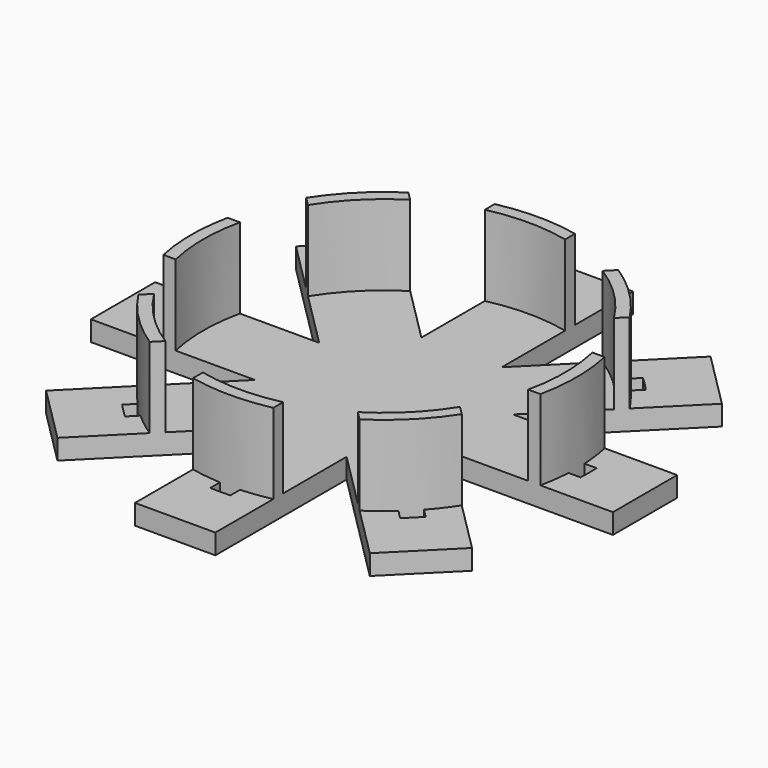
from build123d import *

# Parameters (mm, degrees)
BOX037_W                  = 130
BOX037_H                  = 50
BOX037_DEPTH              = 30
BOX035_W                  = 130
BOX035_H                  = 50
BOX035_DEPTH              = 30
CYLINDER078_R             = 45
CYLINDER078_DEPTH         = 20
CYLINDER077_R             = 48
CYLINDER077_DEPTH         = 20
BOX036_W                  = 130
BOX036_H                  = 60
BOX036_DEPTH              = 20
BOX038_W                  = 130
BOX038_H                  = 60
BOX038_DEPTH              = 20
CYLINDER076_R             = 48
CYLINDER076_DEPTH         = 10
CYLINDER075_R             = 51
CYLINDER075_DEPTH         = 10
BOX034_W                  = 130
BOX034_H                  = 20
BOX034_DEPTH              = 5
CUT049_PLACEMENT_ANGLE    = 270
BOX033_W                  = 130
BOX033_H                  = 50
BOX033_DEPTH              = 30
BOX032_W                  = 130
BOX032_H                  = 50
BOX032_DEPTH              = 30
CYLINDER072_R             = 45
CYLINDER072_DEPTH         = 20
CYLINDER071_R             = 48
CYLINDER071_DEPTH         = 20
BOX031_W                  = 130
BOX031_H                  = 60
BOX031_DEPTH              = 20
BOX030_W                  = 130
BOX030_H                  = 60
BOX030_DEPTH              = 20
CYLINDER073_R             = 48
CYLINDER073_DEPTH         = 10
CYLINDER074_R             = 51
CYLINDER074_DEPTH         = 10
BOX_W                     = 130
BOX_H                     = 20
BOX_DEPTH                 = 5
BOX039_W                  = 130
BOX039_H                  = 50
BOX039_DEPTH              = 30
BOX046_W                  = 130
BOX046_H                  = 50
BOX046_DEPTH              = 30
CYLINDER083_R             = 45
CYLINDER083_DEPTH         = 20
CYLINDER081_R             = 48
CYLINDER081_DEPTH         = 20
BOX042_W                  = 130
BOX042_H                  = 60
BOX042_DEPTH              = 20
BOX048_W                  = 130
BOX048_H                  = 60
BOX048_DEPTH              = 20
CYLINDER080_R             = 48
CYLINDER080_DEPTH         = 10
CYLINDER082_R             = 51
CYLINDER082_DEPTH         = 10
BOX045_W                  = 130
BOX045_H                  = 20
BOX045_DEPTH              = 5
CUT056_PLACEMENT_ANGLE    = 90
BOX044_W                  = 130
BOX044_H                  = 50
BOX044_DEPTH              = 30
BOX041_W                  = 130
BOX041_H                  = 50
BOX041_DEPTH              = 30
CYLINDER086_R             = 45
CYLINDER086_DEPTH         = 20
CYLINDER085_R             = 48
CYLINDER085_DEPTH         = 20
BOX043_W                  = 130
BOX043_H                  = 60
BOX043_DEPTH              = 20
BOX047_W                  = 130
BOX047_H                  = 60
BOX047_DEPTH              = 20
CYLINDER084_R             = 48
CYLINDER084_DEPTH         = 10
CYLINDER079_R             = 51
CYLINDER079_DEPTH         = 10
BOX040_W                  = 130
BOX040_H                  = 20
BOX040_DEPTH              = 5
FUSION030_PLACEMENT_ANGLE = 45


with BuildPart() as cube037:
    # Box037 → Box037 (new body)
    with BuildSketch(Plane(origin=(-65, -60, 0), x_dir=(1, 0, 0), z_dir=(0, 0, 1))):
        with Locations((65, 25)):
            Rectangle(BOX037_W, BOX037_H)
    extrude(amount=BOX037_DEPTH)


with BuildPart() as cube035:
    # Box035 → Box035 (new body)
    with BuildSketch(Plane(origin=(-65, 10, 0), x_dir=(1, 0, 0), z_dir=(0, 0, 1))):
        with Locations((65, 25)):
            Rectangle(BOX035_W, BOX035_H)
    extrude(amount=BOX035_DEPTH)


with BuildPart() as cylinder078:
    # Cylinder078 → Cylinder078 (new body)
    with BuildSketch(Plane.XY):
        Circle(CYLINDER078_R)
    extrude(amount=CYLINDER078_DEPTH)


with BuildPart() as cut044:
    # Cylinder077 → Cylinder077 (new body)
    with BuildSketch(Plane.XY):
        Circle(CYLINDER077_R)
    extrude(amount=CYLINDER077_DEPTH)

    # Cut044: cut Cylinder078
    add(cylinder078.part, mode=Mode.SUBTRACT)


with BuildPart() as cut044_1:
    # Cut044 placement: moved
    add(cut044.part.moved(Location((0, 0, 5))))


with BuildPart() as cube036:
    # Box036 → Box036 (new body)
    with BuildSketch(Plane(origin=(-65, -62.5, -108), x_dir=(1, 0, 0), z_dir=(0, 0, 1))):
        with Locations((65, 30)):
            Rectangle(BOX036_W, BOX036_H)
    extrude(amount=BOX036_DEPTH)


with BuildPart() as cube038:
    # Box038 → Box038 (new body)
    with BuildSketch(Plane(origin=(-65, 2.5, -108), x_dir=(1, 0, 0), z_dir=(0, 0, 1))):
        with Locations((65, 30)):
            Rectangle(BOX038_W, BOX038_H)
    extrude(amount=BOX038_DEPTH)


with BuildPart() as cylinder076:
    # Cylinder076 → Cylinder076 (new body)
    with BuildSketch(Plane.XY):
        Circle(CYLINDER076_R)
    extrude(amount=CYLINDER076_DEPTH)


with BuildPart() as cut046:
    # Cylinder075 → Cylinder075 (new body)
    with BuildSketch(Plane.XY):
        Circle(CYLINDER075_R)
    extrude(amount=CYLINDER075_DEPTH)

    # Cut048: cut Cylinder076
    add(cylinder076.part, mode=Mode.SUBTRACT)


with BuildPart() as cut046_1:
    # Cut048 placement: moved
    add(cut046.part.moved(Location((0, 0, -106))))

    # Cut045: cut Cube038
    add(cube038.part, mode=Mode.SUBTRACT)

    # Cut046: cut Cube036
    add(cube036.part, mode=Mode.SUBTRACT)


with BuildPart() as cut046_2:
    # Cut046 placement: moved
    add(cut046_1.part.moved(Location((0, 0, 105))))


with BuildPart() as cut049:
    # Box034 → Box034 (new body)
    with BuildSketch(Plane(origin=(-65, -10, 0), x_dir=(1, 0, 0), z_dir=(0, 0, 1))):
        with Locations((65, 10)):
            Rectangle(BOX034_W, BOX034_H)
    extrude(amount=BOX034_DEPTH)

    # Cut047: cut Cut046
    add(cut046_2.part, mode=Mode.SUBTRACT)

    # Fusion026: union Cut044
    add(cut044_1.part)

    # Cut050: cut Cube035
    add(cube035.part, mode=Mode.SUBTRACT)

    # Cut049: cut Cube037
    add(cube037.part, mode=Mode.SUBTRACT)


with BuildPart() as cut049_1:
    # Cut049 placement: moved
    add(cut049.part.rotate(Axis((0, 0, 0), (0, 0, 1)), CUT049_PLACEMENT_ANGLE))


with BuildPart() as cube033:
    # Box033 → Box033 (new body)
    with BuildSketch(Plane(origin=(-65, -60, 0), x_dir=(1, 0, 0), z_dir=(0, 0, 1))):
        with Locations((65, 25)):
            Rectangle(BOX033_W, BOX033_H)
    extrude(amount=BOX033_DEPTH)


with BuildPart() as cube032:
    # Box032 → Box032 (new body)
    with BuildSketch(Plane(origin=(-65, 10, 0), x_dir=(1, 0, 0), z_dir=(0, 0, 1))):
        with Locations((65, 25)):
            Rectangle(BOX032_W, BOX032_H)
    extrude(amount=BOX032_DEPTH)


with BuildPart() as cylinder072:
    # Cylinder072 → Cylinder072 (new body)
    with BuildSketch(Plane.XY):
        Circle(CYLINDER072_R)
    extrude(amount=CYLINDER072_DEPTH)


with BuildPart() as cut037:
    # Cylinder071 → Cylinder071 (new body)
    with BuildSketch(Plane.XY):
        Circle(CYLINDER071_R)
    extrude(amount=CYLINDER071_DEPTH)

    # Cut037: cut Cylinder072
    add(cylinder072.part, mode=Mode.SUBTRACT)


with BuildPart() as cut037_1:
    # Cut037 placement: moved
    add(cut037.part.moved(Location((0, 0, 5))))


with BuildPart() as cube031:
    # Box031 → Box031 (new body)
    with BuildSketch(Plane(origin=(-65, -62.5, -108), x_dir=(1, 0, 0), z_dir=(0, 0, 1))):
        with Locations((65, 30)):
            Rectangle(BOX031_W, BOX031_H)
    extrude(amount=BOX031_DEPTH)


with BuildPart() as cube030:
    # Box030 → Box030 (new body)
    with BuildSketch(Plane(origin=(-65, 2.5, -108), x_dir=(1, 0, 0), z_dir=(0, 0, 1))):
        with Locations((65, 30)):
            Rectangle(BOX030_W, BOX030_H)
    extrude(amount=BOX030_DEPTH)


with BuildPart() as cylinder073:
    # Cylinder073 → Cylinder073 (new body)
    with BuildSketch(Plane.XY):
        Circle(CYLINDER073_R)
    extrude(amount=CYLINDER073_DEPTH)


with BuildPart() as cut040:
    # Cylinder074 → Cylinder074 (new body)
    with BuildSketch(Plane.XY):
        Circle(CYLINDER074_R)
    extrude(amount=CYLINDER074_DEPTH)

    # Cut038: cut Cylinder073
    add(cylinder073.part, mode=Mode.SUBTRACT)


with BuildPart() as cut040_1:
    # Cut038 placement: moved
    add(cut040.part.moved(Location((0, 0, -106))))

    # Cut039: cut Cube030
    add(cube030.part, mode=Mode.SUBTRACT)

    # Cut040: cut Cube031
    add(cube031.part, mode=Mode.SUBTRACT)


with BuildPart() as cut040_2:
    # Cut040 placement: moved
    add(cut040_1.part.moved(Location((0, 0, 105))))


with BuildPart() as fusion027:
    # Box → Box (new body)
    with BuildSketch(Plane(origin=(-65, -10, 0), x_dir=(1, 0, 0), z_dir=(0, 0, 1))):
        with Locations((65, 10)):
            Rectangle(BOX_W, BOX_H)
    extrude(amount=BOX_DEPTH)

    # Cut041: cut Cut040
    add(cut040_2.part, mode=Mode.SUBTRACT)

    # Fusion025: union Cut037
    add(cut037_1.part)

    # Cut042: cut Cube032
    add(cube032.part, mode=Mode.SUBTRACT)

    # Cut043: cut Cube033
    add(cube033.part, mode=Mode.SUBTRACT)

    # Fusion027: union Cut049
    add(cut049_1.part)


with BuildPart() as cube039:
    # Box039 → Box039 (new body)
    with BuildSketch(Plane(origin=(-65, -60, 0), x_dir=(1, 0, 0), z_dir=(0, 0, 1))):
        with Locations((65, 25)):
            Rectangle(BOX039_W, BOX039_H)
    extrude(amount=BOX039_DEPTH)


with BuildPart() as cube046:
    # Box046 → Box046 (new body)
    with BuildSketch(Plane(origin=(-65, 10, 0), x_dir=(1, 0, 0), z_dir=(0, 0, 1))):
        with Locations((65, 25)):
            Rectangle(BOX046_W, BOX046_H)
    extrude(amount=BOX046_DEPTH)


with BuildPart() as cylinder083:
    # Cylinder083 → Cylinder083 (new body)
    with BuildSketch(Plane.XY):
        Circle(CYLINDER083_R)
    extrude(amount=CYLINDER083_DEPTH)


with BuildPart() as cut051:
    # Cylinder081 → Cylinder081 (new body)
    with BuildSketch(Plane.XY):
        Circle(CYLINDER081_R)
    extrude(amount=CYLINDER081_DEPTH)

    # Cut051: cut Cylinder083
    add(cylinder083.part, mode=Mode.SUBTRACT)


with BuildPart() as cut051_1:
    # Cut051 placement: moved
    add(cut051.part.moved(Location((0, 0, 5))))


with BuildPart() as cube042:
    # Box042 → Box042 (new body)
    with BuildSketch(Plane(origin=(-65, -62.5, -108), x_dir=(1, 0, 0), z_dir=(0, 0, 1))):
        with Locations((65, 30)):
            Rectangle(BOX042_W, BOX042_H)
    extrude(amount=BOX042_DEPTH)


with BuildPart() as cube048:
    # Box048 → Box048 (new body)
    with BuildSketch(Plane(origin=(-65, 2.5, -108), x_dir=(1, 0, 0), z_dir=(0, 0, 1))):
        with Locations((65, 30)):
            Rectangle(BOX048_W, BOX048_H)
    extrude(amount=BOX048_DEPTH)


with BuildPart() as cylinder080:
    # Cylinder080 → Cylinder080 (new body)
    with BuildSketch(Plane.XY):
        Circle(CYLINDER080_R)
    extrude(amount=CYLINDER080_DEPTH)


with BuildPart() as cut052:
    # Cylinder082 → Cylinder082 (new body)
    with BuildSketch(Plane.XY):
        Circle(CYLINDER082_R)
    extrude(amount=CYLINDER082_DEPTH)

    # Cut055: cut Cylinder080
    add(cylinder080.part, mode=Mode.SUBTRACT)


with BuildPart() as cut052_1:
    # Cut055 placement: moved
    add(cut052.part.moved(Location((0, 0, -106))))

    # Cut053: cut Cube048
    add(cube048.part, mode=Mode.SUBTRACT)

    # Cut052: cut Cube042
    add(cube042.part, mode=Mode.SUBTRACT)


with BuildPart() as cut052_2:
    # Cut052 placement: moved
    add(cut052_1.part.moved(Location((0, 0, 105))))


with BuildPart() as cut056:
    # Box045 → Box045 (new body)
    with BuildSketch(Plane(origin=(-65, -10, 0), x_dir=(1, 0, 0), z_dir=(0, 0, 1))):
        with Locations((65, 10)):
            Rectangle(BOX045_W, BOX045_H)
    extrude(amount=BOX045_DEPTH)

    # Cut054: cut Cut052
    add(cut052_2.part, mode=Mode.SUBTRACT)

    # Fusion029: union Cut051
    add(cut051_1.part)

    # Cut057: cut Cube046
    add(cube046.part, mode=Mode.SUBTRACT)

    # Cut056: cut Cube039
    add(cube039.part, mode=Mode.SUBTRACT)


with BuildPart() as cut056_1:
    # Cut056 placement: moved
    add(cut056.part.rotate(Axis((0, 0, 0), (0, 0, -1)), CUT056_PLACEMENT_ANGLE))


with BuildPart() as cube044:
    # Box044 → Box044 (new body)
    with BuildSketch(Plane(origin=(-65, -60, 0), x_dir=(1, 0, 0), z_dir=(0, 0, 1))):
        with Locations((65, 25)):
            Rectangle(BOX044_W, BOX044_H)
    extrude(amount=BOX044_DEPTH)


with BuildPart() as cube041:
    # Box041 → Box041 (new body)
    with BuildSketch(Plane(origin=(-65, 10, 0), x_dir=(1, 0, 0), z_dir=(0, 0, 1))):
        with Locations((65, 25)):
            Rectangle(BOX041_W, BOX041_H)
    extrude(amount=BOX041_DEPTH)


with BuildPart() as cylinder086:
    # Cylinder086 → Cylinder086 (new body)
    with BuildSketch(Plane.XY):
        Circle(CYLINDER086_R)
    extrude(amount=CYLINDER086_DEPTH)


with BuildPart() as cut058:
    # Cylinder085 → Cylinder085 (new body)
    with BuildSketch(Plane.XY):
        Circle(CYLINDER085_R)
    extrude(amount=CYLINDER085_DEPTH)

    # Cut058: cut Cylinder086
    add(cylinder086.part, mode=Mode.SUBTRACT)


with BuildPart() as cut058_1:
    # Cut058 placement: moved
    add(cut058.part.moved(Location((0, 0, 5))))


with BuildPart() as cube043:
    # Box043 → Box043 (new body)
    with BuildSketch(Plane(origin=(-65, -62.5, -108), x_dir=(1, 0, 0), z_dir=(0, 0, 1))):
        with Locations((65, 30)):
            Rectangle(BOX043_W, BOX043_H)
    extrude(amount=BOX043_DEPTH)


with BuildPart() as cube047:
    # Box047 → Box047 (new body)
    with BuildSketch(Plane(origin=(-65, 2.5, -108), x_dir=(1, 0, 0), z_dir=(0, 0, 1))):
        with Locations((65, 30)):
            Rectangle(BOX047_W, BOX047_H)
    extrude(amount=BOX047_DEPTH)


with BuildPart() as cylinder084:
    # Cylinder084 → Cylinder084 (new body)
    with BuildSketch(Plane.XY):
        Circle(CYLINDER084_R)
    extrude(amount=CYLINDER084_DEPTH)


with BuildPart() as cut060:
    # Cylinder079 → Cylinder079 (new body)
    with BuildSketch(Plane.XY):
        Circle(CYLINDER079_R)
    extrude(amount=CYLINDER079_DEPTH)

    # Cut062: cut Cylinder084
    add(cylinder084.part, mode=Mode.SUBTRACT)


with BuildPart() as cut060_1:
    # Cut062 placement: moved
    add(cut060.part.moved(Location((0, 0, -106))))

    # Cut059: cut Cube047
    add(cube047.part, mode=Mode.SUBTRACT)

    # Cut060: cut Cube043
    add(cube043.part, mode=Mode.SUBTRACT)


with BuildPart() as cut060_2:
    # Cut060 placement: moved
    add(cut060_1.part.moved(Location((0, 0, 105))))


with BuildPart() as obj1:
    # Box040 → Box040 (new body)
    with BuildSketch(Plane(origin=(-65, -10, 0), x_dir=(1, 0, 0), z_dir=(0, 0, 1))):
        with Locations((65, 10)):
            Rectangle(BOX040_W, BOX040_H)
    extrude(amount=BOX040_DEPTH)

    # Cut061: cut Cut060
    add(cut060_2.part, mode=Mode.SUBTRACT)

    # Fusion028: union Cut058
    add(cut058_1.part)

    # Cut064: cut Cube041
    add(cube041.part, mode=Mode.SUBTRACT)

    # Cut063: cut Cube044
    add(cube044.part, mode=Mode.SUBTRACT)

    # Fusion030: union Cut056
    add(cut056_1.part)


with BuildPart() as obj1_1:
    # Fusion030 placement: moved
    add(obj1.part.rotate(Axis((0, 0, 0), (0, 0, 1)), FUSION030_PLACEMENT_ANGLE))

    # Fusion031: union Fusion027
    add(fusion027.part)


solid = obj1_1.part
